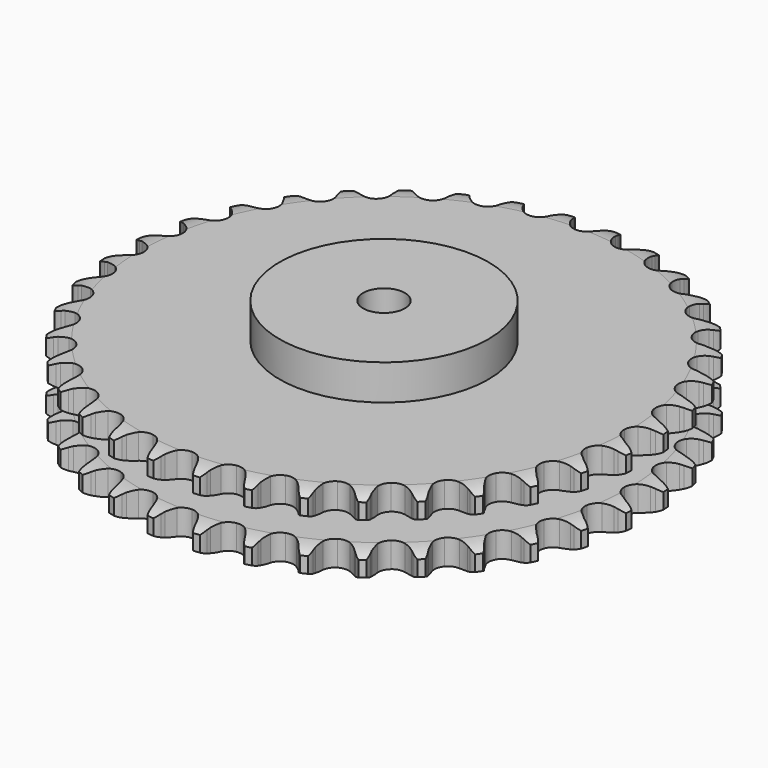
from build123d import *

# Parameters (mm, degrees)
PAD_DEPTH         = 54.6
SKETCH001_R       = 75
PAD001_DEPTH      = 80
SKETCH002_R       = 15
POCKET_DEPTH      = 0.001
POCKET_DEPTH_BACK = 80.001


with BuildPart() as part:
    # Sprocket → Pad (new body)
    with BuildSketch(Plane.XY):
        with BuildLine():
            ThreePointArc((-16.78403, 191.842346), (-13.955866, 188.830521), (-12.023803, 185.178571))
            Line((-12.023803, 185.178571), (-11.094545, 182.655939))
            ThreePointArc((-11.094545, 182.655939), (-9.626372, 179.409335), (-7.708985, 176.406071))
            ThreePointArc((-7.708985, 176.406071), (-4.313286, 173.55674), (0, 172.534473))
            ThreePointArc((0, 172.534473), (4.313286, 173.55674), (7.708985, 176.406071))
            ThreePointArc((7.708985, 176.406071), (9.626372, 179.409335), (11.094545, 182.655939))
            Line((11.094545, 182.655939), (12.023803, 185.178571))
            ThreePointArc((12.023803, 185.178571), (13.955866, 188.830521), (16.78403, 191.842346))
            ThreePointArc((16.78403, 191.842346), (19.046231, 188.385172), (20.314787, 184.453204))
            Line((20.314787, 184.453204), (20.791877, 181.807533))
            ThreePointArc((20.791877, 181.807533), (21.673978, 178.355306), (23.040724, 175.064717))
            ThreePointArc((23.040724, 175.064717), (25.890055, 171.669018), (29.960297, 169.913286))
            ThreePointArc((29.960297, 169.913286), (34.385569, 170.171029), (38.224461, 172.387415))
            Line((38.224461, 172.387415), (42.643865, 177.954438))
            ThreePointArc((42.643865, 177.954438), (43.289025, 179.134221), (43.997056, 180.277381))
            ThreePointArc((43.997056, 180.277381), (46.533921, 183.538351), (49.842117, 186.013314))
            ThreePointArc((49.842117, 186.013314), (51.469618, 182.215835), (52.036122, 178.12332))
            Line((52.036122, 178.12332), (52.046549, 175.434996))
            ThreePointArc((52.046549, 175.434996), (52.315776, 171.882041), (53.090353, 168.404111))
            ThreePointArc((53.090353, 168.404111), (55.306739, 164.565219), (59.010265, 162.129371))
            ThreePointArc((59.010265, 162.129371), (63.413064, 161.614758), (67.578506, 163.130855))
            Line((67.578506, 163.130855), (72.897472, 167.84588))
            ThreePointArc((72.897472, 167.84588), (73.737699, 168.895709), (74.633481, 169.898554))
            ThreePointArc((74.633481, 169.898554), (77.698066, 172.66946), (81.385776, 174.532361))
            ThreePointArc((81.385776, 174.532361), (82.329126, 170.509961), (82.176366, 166.381248))
            Line((82.176366, 166.381248), (81.719812, 163.731956))
            ThreePointArc((81.719812, 163.731956), (81.367985, 160.186228), (81.526858, 156.626631))
            ThreePointArc((81.526858, 156.626631), (83.042955, 152.461189), (86.267236, 149.419236))
            ThreePointArc((86.267236, 149.419236), (90.513785, 148.147903), (94.879213, 148.917646))
            Line((94.879213, 148.917646), (100.936127, 152.637411))
            ThreePointArc((100.936127, 152.637411), (101.94589, 153.525387), (103.002205, 154.357445))
            ThreePointArc((103.002205, 154.357445), (106.501395, 156.554096), (110.45657, 157.74833))
            ThreePointArc((110.45657, 157.74833), (110.687106, 153.623229), (109.819723, 149.583767))
            Line((109.819723, 149.583767), (108.91006, 147.054003))
            ThreePointArc((108.91006, 147.054003), (107.947869, 143.623237), (107.486211, 140.090131))
            ThreePointArc((107.486211, 140.090131), (108.255954, 135.724703), (110.903021, 132.169074))
            ThreePointArc((110.903021, 132.169074), (114.864291, 130.17965), (119.297062, 130.17965))
            Line((119.297062, 130.17965), (125.907889, 132.791131))
            ThreePointArc((125.907889, 132.791131), (127.056506, 133.490273), (128.241259, 134.126263))
            ThreePointArc((128.241259, 134.126263), (132.068733, 135.681914), (136.171196, 136.171196))
            ThreePointArc((136.171196, 136.171196), (135.681914, 132.068733), (134.126263, 128.241259))
            Line((134.126263, 128.241259), (132.791131, 125.907889))
            ThreePointArc((132.791131, 125.907889), (131.247811, 122.696327), (130.17965, 119.297062))
            ThreePointArc((130.17965, 119.297062), (130.17965, 114.864291), (132.169074, 110.903021))
            ThreePointArc((132.169074, 110.903021), (135.724703, 108.255954), (140.090131, 107.486211))
            Line((140.090131, 107.486211), (147.054003, 108.91006))
            ThreePointArc((147.054003, 108.91006), (148.306575, 109.399125), (149.583767, 109.819723))
            ThreePointArc((149.583767, 109.819723), (153.623229, 110.687106), (157.74833, 110.45657))
            ThreePointArc((157.74833, 110.45657), (156.554096, 106.501395), (154.357445, 103.002205))
            Line((154.357445, 103.002205), (152.637411, 100.936127))
            ThreePointArc((152.637411, 100.936127), (150.559856, 98.04135), (148.917646, 94.879213))
            ThreePointArc((148.917646, 94.879213), (148.147903, 90.513785), (149.419236, 86.267236))
            ThreePointArc((149.419236, 86.267236), (152.461189, 83.042955), (156.626631, 81.526858))
            Line((156.626631, 81.526858), (163.731956, 81.719812))
            ThreePointArc((163.731956, 81.719812), (165.050424, 81.98394), (166.381248, 82.176366))
            ThreePointArc((166.381248, 82.176366), (170.509961, 82.329126), (174.532361, 81.385776))
            ThreePointArc((174.532361, 81.385776), (172.66946, 77.698066), (169.898554, 74.633481))
            Line((169.898554, 74.633481), (167.84588, 72.897472))
            ThreePointArc((167.84588, 72.897472), (165.297215, 70.407437), (163.130855, 67.578506))
            ThreePointArc((163.130855, 67.578506), (161.614758, 63.413064), (162.129371, 59.010265))
            ThreePointArc((162.129371, 59.010265), (164.565219, 55.306739), (168.404111, 53.090353))
            Line((168.404111, 53.090353), (175.434996, 52.046549))
            ThreePointArc((175.434996, 52.046549), (176.779299, 52.077715), (178.12332, 52.036122))
            ThreePointArc((178.12332, 52.036122), (182.215835, 51.469618), (186.013314, 49.842117))
            ThreePointArc((186.013314, 49.842117), (183.538351, 46.533921), (180.277381, 43.997056))
            Line((180.277381, 43.997056), (177.954438, 42.643865))
            ThreePointArc((177.954438, 42.643865), (175.012102, 40.63423), (172.387415, 38.224461))
            ThreePointArc((172.387415, 38.224461), (170.171029, 34.385569), (169.913286, 29.960297))
            ThreePointArc((169.913286, 29.960297), (171.669018, 25.890055), (175.064717, 23.040724))
            Line((175.064717, 23.040724), (181.807533, 20.791877))
            ThreePointArc((181.807533, 20.791877), (183.136824, 20.589134), (184.453204, 20.314787))
            ThreePointArc((184.453204, 20.314787), (188.385172, 19.046231), (191.842346, 16.78403))
            ThreePointArc((191.842346, 16.78403), (188.830521, 13.955866), (185.178571, 12.023803))
            Line((185.178571, 12.023803), (182.655939, 11.094545))
            ThreePointArc((182.655939, 11.094545), (179.409335, 9.626372), (176.406071, 7.708985))
            ThreePointArc((176.406071, 7.708985), (173.55674, 4.313286), (172.534473, 0))
            ThreePointArc((172.534473, 0), (173.55674, -4.313286), (176.406071, -7.708985))
            Line((176.406071, -7.708985), (182.655939, -11.094545))
            ThreePointArc((182.655939, -11.094545), (183.92983, -11.525037), (185.178571, -12.023803))
            ThreePointArc((185.178571, -12.023803), (188.830521, -13.955866), (191.842346, -16.78403))
            ThreePointArc((191.842346, -16.78403), (188.385172, -19.046231), (184.453204, -20.314787))
            Line((184.453204, -20.314787), (181.807533, -20.791877))
            ThreePointArc((181.807533, -20.791877), (178.355306, -21.673978), (175.064717, -23.040724))
            ThreePointArc((175.064717, -23.040724), (171.669018, -25.890055), (169.913286, -29.960297))
            ThreePointArc((169.913286, -29.960297), (170.171029, -34.385569), (172.387415, -38.224461))
            Line((172.387415, -38.224461), (177.954438, -42.643865))
            ThreePointArc((177.954438, -42.643865), (179.134221, -43.289025), (180.277381, -43.997056))
            ThreePointArc((180.277381, -43.997056), (183.538351, -46.533921), (186.013314, -49.842117))
            ThreePointArc((186.013314, -49.842117), (182.215835, -51.469618), (178.12332, -52.036122))
            Line((178.12332, -52.036122), (175.434996, -52.046549))
            ThreePointArc((175.434996, -52.046549), (171.882041, -52.315776), (168.404111, -53.090353))
            ThreePointArc((168.404111, -53.090353), (164.565219, -55.306739), (162.129371, -59.010265))
            ThreePointArc((162.129371, -59.010265), (161.614758, -63.413064), (163.130855, -67.578506))
            Line((163.130855, -67.578506), (167.84588, -72.897472))
            ThreePointArc((167.84588, -72.897472), (168.895709, -73.737699), (169.898554, -74.633481))
            ThreePointArc((169.898554, -74.633481), (172.66946, -77.698066), (174.532361, -81.385776))
            ThreePointArc((174.532361, -81.385776), (170.509961, -82.329126), (166.381248, -82.176366))
            Line((166.381248, -82.176366), (163.731956, -81.719812))
            ThreePointArc((163.731956, -81.719812), (160.186228, -81.367985), (156.626631, -81.526858))
            ThreePointArc((156.626631, -81.526858), (152.461189, -83.042955), (149.419236, -86.267236))
            ThreePointArc((149.419236, -86.267236), (148.147903, -90.513785), (148.917646, -94.879213))
            Line((148.917646, -94.879213), (152.637411, -100.936127))
            ThreePointArc((152.637411, -100.936127), (153.525387, -101.94589), (154.357445, -103.002205))
            ThreePointArc((154.357445, -103.002205), (156.554096, -106.501395), (157.74833, -110.45657))
            ThreePointArc((157.74833, -110.45657), (153.623229, -110.687106), (149.583767, -109.819723))
            Line((149.583767, -109.819723), (147.054003, -108.91006))
            ThreePointArc((147.054003, -108.91006), (143.623237, -107.947869), (140.090131, -107.486211))
            ThreePointArc((140.090131, -107.486211), (135.724703, -108.255954), (132.169074, -110.903021))
            ThreePointArc((132.169074, -110.903021), (130.17965, -114.864291), (130.17965, -119.297062))
            Line((130.17965, -119.297062), (132.791131, -125.907889))
            ThreePointArc((132.791131, -125.907889), (133.490273, -127.056506), (134.126263, -128.241259))
            ThreePointArc((134.126263, -128.241259), (135.681914, -132.068733), (136.171196, -136.171196))
            ThreePointArc((136.171196, -136.171196), (132.068733, -135.681914), (128.241259, -134.126263))
            Line((128.241259, -134.126263), (125.907889, -132.791131))
            ThreePointArc((125.907889, -132.791131), (122.696327, -131.247811), (119.297062, -130.17965))
            ThreePointArc((119.297062, -130.17965), (114.864291, -130.17965), (110.903021, -132.169074))
            ThreePointArc((110.903021, -132.169074), (108.255954, -135.724703), (107.486211, -140.090131))
            Line((107.486211, -140.090131), (108.91006, -147.054003))
            ThreePointArc((108.91006, -147.054003), (109.399125, -148.306575), (109.819723, -149.583767))
            ThreePointArc((109.819723, -149.583767), (110.687106, -153.623229), (110.45657, -157.74833))
            ThreePointArc((110.45657, -157.74833), (106.501395, -156.554096), (103.002205, -154.357445))
            Line((103.002205, -154.357445), (100.936127, -152.637411))
            ThreePointArc((100.936127, -152.637411), (98.04135, -150.559856), (94.879213, -148.917646))
            ThreePointArc((94.879213, -148.917646), (90.513785, -148.147903), (86.267236, -149.419236))
            ThreePointArc((86.267236, -149.419236), (83.042955, -152.461189), (81.526858, -156.626631))
            Line((81.526858, -156.626631), (81.719812, -163.731956))
            ThreePointArc((81.719812, -163.731956), (81.98394, -165.050424), (82.176366, -166.381248))
            ThreePointArc((82.176366, -166.381248), (82.329126, -170.509961), (81.385776, -174.532361))
            ThreePointArc((81.385776, -174.532361), (77.698066, -172.66946), (74.633481, -169.898554))
            Line((74.633481, -169.898554), (72.897472, -167.84588))
            ThreePointArc((72.897472, -167.84588), (70.407437, -165.297215), (67.578506, -163.130855))
            ThreePointArc((67.578506, -163.130855), (63.413064, -161.614758), (59.010265, -162.129371))
            ThreePointArc((59.010265, -162.129371), (55.306739, -164.565219), (53.090353, -168.404111))
            Line((53.090353, -168.404111), (52.046549, -175.434996))
            ThreePointArc((52.046549, -175.434996), (52.077715, -176.779299), (52.036122, -178.12332))
            ThreePointArc((52.036122, -178.12332), (51.469618, -182.215835), (49.842117, -186.013314))
            ThreePointArc((49.842117, -186.013314), (46.533921, -183.538351), (43.997056, -180.277381))
            Line((43.997056, -180.277381), (42.643865, -177.954438))
            ThreePointArc((42.643865, -177.954438), (40.63423, -175.012102), (38.224461, -172.387415))
            ThreePointArc((38.224461, -172.387415), (34.385569, -170.171029), (29.960297, -169.913286))
            ThreePointArc((29.960297, -169.913286), (25.890055, -171.669018), (23.040724, -175.064717))
            Line((23.040724, -175.064717), (20.791877, -181.807533))
            ThreePointArc((20.791877, -181.807533), (20.589134, -183.136824), (20.314787, -184.453204))
            ThreePointArc((20.314787, -184.453204), (19.046231, -188.385172), (16.78403, -191.842346))
            ThreePointArc((16.78403, -191.842346), (13.955866, -188.830521), (12.023803, -185.178571))
            Line((12.023803, -185.178571), (11.094545, -182.655939))
            ThreePointArc((11.094545, -182.655939), (9.626372, -179.409335), (7.708985, -176.406071))
            ThreePointArc((7.708985, -176.406071), (4.313286, -173.55674), (0, -172.534473))
            ThreePointArc((0, -172.534473), (-4.313286, -173.55674), (-7.708985, -176.406071))
            Line((-7.708985, -176.406071), (-11.094545, -182.655939))
            ThreePointArc((-11.094545, -182.655939), (-11.525037, -183.92983), (-12.023803, -185.178571))
            ThreePointArc((-12.023803, -185.178571), (-13.955866, -188.830521), (-16.78403, -191.842346))
            ThreePointArc((-16.78403, -191.842346), (-19.046231, -188.385172), (-20.314787, -184.453204))
            Line((-20.314787, -184.453204), (-20.791877, -181.807533))
            ThreePointArc((-20.791877, -181.807533), (-21.673978, -178.355306), (-23.040724, -175.064717))
            ThreePointArc((-23.040724, -175.064717), (-25.890055, -171.669018), (-29.960297, -169.913286))
            ThreePointArc((-29.960297, -169.913286), (-34.385569, -170.171029), (-38.224461, -172.387415))
            Line((-38.224461, -172.387415), (-42.643865, -177.954438))
            ThreePointArc((-42.643865, -177.954438), (-43.289025, -179.134221), (-43.997056, -180.277381))
            ThreePointArc((-43.997056, -180.277381), (-46.533921, -183.538351), (-49.842117, -186.013314))
            ThreePointArc((-49.842117, -186.013314), (-51.469618, -182.215835), (-52.036122, -178.12332))
            Line((-52.036122, -178.12332), (-52.046549, -175.434996))
            ThreePointArc((-52.046549, -175.434996), (-52.315776, -171.882041), (-53.090353, -168.404111))
            ThreePointArc((-53.090353, -168.404111), (-55.306739, -164.565219), (-59.010265, -162.129371))
            ThreePointArc((-59.010265, -162.129371), (-63.413064, -161.614758), (-67.578506, -163.130855))
            Line((-67.578506, -163.130855), (-72.897472, -167.84588))
            ThreePointArc((-72.897472, -167.84588), (-73.737699, -168.895709), (-74.633481, -169.898554))
            ThreePointArc((-74.633481, -169.898554), (-77.698066, -172.66946), (-81.385776, -174.532361))
            ThreePointArc((-81.385776, -174.532361), (-82.329126, -170.509961), (-82.176366, -166.381248))
            Line((-82.176366, -166.381248), (-81.719812, -163.731956))
            ThreePointArc((-81.719812, -163.731956), (-81.367985, -160.186228), (-81.526858, -156.626631))
            ThreePointArc((-81.526858, -156.626631), (-83.042955, -152.461189), (-86.267236, -149.419236))
            ThreePointArc((-86.267236, -149.419236), (-90.513785, -148.147903), (-94.879213, -148.917646))
            Line((-94.879213, -148.917646), (-100.936127, -152.637411))
            ThreePointArc((-100.936127, -152.637411), (-101.94589, -153.525387), (-103.002205, -154.357445))
            ThreePointArc((-103.002205, -154.357445), (-106.501395, -156.554096), (-110.45657, -157.74833))
            ThreePointArc((-110.45657, -157.74833), (-110.687106, -153.623229), (-109.819723, -149.583767))
            Line((-109.819723, -149.583767), (-108.91006, -147.054003))
            ThreePointArc((-108.91006, -147.054003), (-107.947869, -143.623237), (-107.486211, -140.090131))
            ThreePointArc((-107.486211, -140.090131), (-108.255954, -135.724703), (-110.903021, -132.169074))
            ThreePointArc((-110.903021, -132.169074), (-114.864291, -130.17965), (-119.297062, -130.17965))
            Line((-119.297062, -130.17965), (-125.907889, -132.791131))
            ThreePointArc((-125.907889, -132.791131), (-127.056506, -133.490273), (-128.241259, -134.126263))
            ThreePointArc((-128.241259, -134.126263), (-132.068733, -135.681914), (-136.171196, -136.171196))
            ThreePointArc((-136.171196, -136.171196), (-135.681914, -132.068733), (-134.126263, -128.241259))
            Line((-134.126263, -128.241259), (-132.791131, -125.907889))
            ThreePointArc((-132.791131, -125.907889), (-131.247811, -122.696327), (-130.17965, -119.297062))
            ThreePointArc((-130.17965, -119.297062), (-130.17965, -114.864291), (-132.169074, -110.903021))
            ThreePointArc((-132.169074, -110.903021), (-135.724703, -108.255954), (-140.090131, -107.486211))
            Line((-140.090131, -107.486211), (-147.054003, -108.91006))
            ThreePointArc((-147.054003, -108.91006), (-148.306575, -109.399125), (-149.583767, -109.819723))
            ThreePointArc((-149.583767, -109.819723), (-153.623229, -110.687106), (-157.74833, -110.45657))
            ThreePointArc((-157.74833, -110.45657), (-156.554096, -106.501395), (-154.357445, -103.002205))
            Line((-154.357445, -103.002205), (-152.637411, -100.936127))
            ThreePointArc((-152.637411, -100.936127), (-150.559856, -98.04135), (-148.917646, -94.879213))
            ThreePointArc((-148.917646, -94.879213), (-148.147903, -90.513785), (-149.419236, -86.267236))
            ThreePointArc((-149.419236, -86.267236), (-152.461189, -83.042955), (-156.626631, -81.526858))
            Line((-156.626631, -81.526858), (-163.731956, -81.719812))
            ThreePointArc((-163.731956, -81.719812), (-165.050424, -81.98394), (-166.381248, -82.176366))
            ThreePointArc((-166.381248, -82.176366), (-170.509961, -82.329126), (-174.532361, -81.385776))
            ThreePointArc((-174.532361, -81.385776), (-172.66946, -77.698066), (-169.898554, -74.633481))
            Line((-169.898554, -74.633481), (-167.84588, -72.897472))
            ThreePointArc((-167.84588, -72.897472), (-165.297215, -70.407437), (-163.130855, -67.578506))
            ThreePointArc((-163.130855, -67.578506), (-161.614758, -63.413064), (-162.129371, -59.010265))
            ThreePointArc((-162.129371, -59.010265), (-164.565219, -55.306739), (-168.404111, -53.090353))
            Line((-168.404111, -53.090353), (-175.434996, -52.046549))
            ThreePointArc((-175.434996, -52.046549), (-176.779299, -52.077715), (-178.12332, -52.036122))
            ThreePointArc((-178.12332, -52.036122), (-182.215835, -51.469618), (-186.013314, -49.842117))
            ThreePointArc((-186.013314, -49.842117), (-183.538351, -46.533921), (-180.277381, -43.997056))
            Line((-180.277381, -43.997056), (-177.954438, -42.643865))
            ThreePointArc((-177.954438, -42.643865), (-175.012102, -40.63423), (-172.387415, -38.224461))
            ThreePointArc((-172.387415, -38.224461), (-170.171029, -34.385569), (-169.913286, -29.960297))
            ThreePointArc((-169.913286, -29.960297), (-171.669018, -25.890055), (-175.064717, -23.040724))
            Line((-175.064717, -23.040724), (-181.807533, -20.791877))
            ThreePointArc((-181.807533, -20.791877), (-183.136824, -20.589134), (-184.453204, -20.314787))
            ThreePointArc((-184.453204, -20.314787), (-188.385172, -19.046231), (-191.842346, -16.78403))
            ThreePointArc((-191.842346, -16.78403), (-188.830521, -13.955866), (-185.178571, -12.023803))
            Line((-185.178571, -12.023803), (-182.655939, -11.094545))
            ThreePointArc((-182.655939, -11.094545), (-179.409335, -9.626372), (-176.406071, -7.708985))
            ThreePointArc((-176.406071, -7.708985), (-173.55674, -4.313286), (-172.534473, 0))
            ThreePointArc((-172.534473, 0), (-173.55674, 4.313286), (-176.406071, 7.708985))
            Line((-176.406071, 7.708985), (-182.655939, 11.094545))
            ThreePointArc((-182.655939, 11.094545), (-183.92983, 11.525037), (-185.178571, 12.023803))
            ThreePointArc((-185.178571, 12.023803), (-188.830521, 13.955866), (-191.842346, 16.78403))
            ThreePointArc((-191.842346, 16.78403), (-188.385172, 19.046231), (-184.453204, 20.314787))
            Line((-184.453204, 20.314787), (-181.807533, 20.791877))
            ThreePointArc((-181.807533, 20.791877), (-178.355306, 21.673978), (-175.064717, 23.040724))
            ThreePointArc((-175.064717, 23.040724), (-171.669018, 25.890055), (-169.913286, 29.960297))
            ThreePointArc((-169.913286, 29.960297), (-170.171029, 34.385569), (-172.387415, 38.224461))
            Line((-172.387415, 38.224461), (-177.954438, 42.643865))
            ThreePointArc((-177.954438, 42.643865), (-179.134221, 43.289025), (-180.277381, 43.997056))
            ThreePointArc((-180.277381, 43.997056), (-183.538351, 46.533921), (-186.013314, 49.842117))
            ThreePointArc((-186.013314, 49.842117), (-182.215835, 51.469618), (-178.12332, 52.036122))
            Line((-178.12332, 52.036122), (-175.434996, 52.046549))
            ThreePointArc((-175.434996, 52.046549), (-171.882041, 52.315776), (-168.404111, 53.090353))
            ThreePointArc((-168.404111, 53.090353), (-164.565219, 55.306739), (-162.129371, 59.010265))
            ThreePointArc((-162.129371, 59.010265), (-161.614758, 63.413064), (-163.130855, 67.578506))
            Line((-163.130855, 67.578506), (-167.84588, 72.897472))
            ThreePointArc((-167.84588, 72.897472), (-168.895709, 73.737699), (-169.898554, 74.633481))
            ThreePointArc((-169.898554, 74.633481), (-172.66946, 77.698066), (-174.532361, 81.385776))
            ThreePointArc((-174.532361, 81.385776), (-170.509961, 82.329126), (-166.381248, 82.176366))
            Line((-166.381248, 82.176366), (-163.731956, 81.719812))
            ThreePointArc((-163.731956, 81.719812), (-160.186228, 81.367985), (-156.626631, 81.526858))
            ThreePointArc((-156.626631, 81.526858), (-152.461189, 83.042955), (-149.419236, 86.267236))
            ThreePointArc((-149.419236, 86.267236), (-148.147903, 90.513785), (-148.917646, 94.879213))
            Line((-148.917646, 94.879213), (-152.637411, 100.936127))
            ThreePointArc((-152.637411, 100.936127), (-153.525387, 101.94589), (-154.357445, 103.002205))
            ThreePointArc((-154.357445, 103.002205), (-156.554096, 106.501395), (-157.74833, 110.45657))
            ThreePointArc((-157.74833, 110.45657), (-153.623229, 110.687106), (-149.583767, 109.819723))
            Line((-149.583767, 109.819723), (-147.054003, 108.91006))
            ThreePointArc((-147.054003, 108.91006), (-143.623237, 107.947869), (-140.090131, 107.486211))
            ThreePointArc((-140.090131, 107.486211), (-135.724703, 108.255954), (-132.169074, 110.903021))
            ThreePointArc((-132.169074, 110.903021), (-130.17965, 114.864291), (-130.17965, 119.297062))
            Line((-130.17965, 119.297062), (-132.791131, 125.907889))
            ThreePointArc((-132.791131, 125.907889), (-133.490273, 127.056506), (-134.126263, 128.241259))
            ThreePointArc((-134.126263, 128.241259), (-135.681914, 132.068733), (-136.171196, 136.171196))
            ThreePointArc((-136.171196, 136.171196), (-132.068733, 135.681914), (-128.241259, 134.126263))
            Line((-128.241259, 134.126263), (-125.907889, 132.791131))
            ThreePointArc((-125.907889, 132.791131), (-122.696327, 131.247811), (-119.297062, 130.17965))
            ThreePointArc((-119.297062, 130.17965), (-114.864291, 130.17965), (-110.903021, 132.169074))
            ThreePointArc((-110.903021, 132.169074), (-108.255954, 135.724703), (-107.486211, 140.090131))
            Line((-107.486211, 140.090131), (-108.91006, 147.054003))
            ThreePointArc((-108.91006, 147.054003), (-109.399125, 148.306575), (-109.819723, 149.583767))
            ThreePointArc((-109.819723, 149.583767), (-110.687106, 153.623229), (-110.45657, 157.74833))
            ThreePointArc((-110.45657, 157.74833), (-106.501395, 156.554096), (-103.002205, 154.357445))
            Line((-103.002205, 154.357445), (-100.936127, 152.637411))
            ThreePointArc((-100.936127, 152.637411), (-98.04135, 150.559856), (-94.879213, 148.917646))
            ThreePointArc((-94.879213, 148.917646), (-90.513785, 148.147903), (-86.267236, 149.419236))
            ThreePointArc((-86.267236, 149.419236), (-83.042955, 152.461189), (-81.526858, 156.626631))
            Line((-81.526858, 156.626631), (-81.719812, 163.731956))
            ThreePointArc((-81.719812, 163.731956), (-81.98394, 165.050424), (-82.176366, 166.381248))
            ThreePointArc((-82.176366, 166.381248), (-82.329126, 170.509961), (-81.385776, 174.532361))
            ThreePointArc((-81.385776, 174.532361), (-77.698066, 172.66946), (-74.633481, 169.898554))
            Line((-74.633481, 169.898554), (-72.897472, 167.84588))
            ThreePointArc((-72.897472, 167.84588), (-70.407437, 165.297215), (-67.578506, 163.130855))
            ThreePointArc((-67.578506, 163.130855), (-63.413064, 161.614758), (-59.010265, 162.129371))
            ThreePointArc((-59.010265, 162.129371), (-55.306739, 164.565219), (-53.090353, 168.404111))
            Line((-53.090353, 168.404111), (-52.046549, 175.434996))
            ThreePointArc((-52.046549, 175.434996), (-52.077715, 176.779299), (-52.036122, 178.12332))
            ThreePointArc((-52.036122, 178.12332), (-51.469618, 182.215835), (-49.842117, 186.013314))
            ThreePointArc((-49.842117, 186.013314), (-46.533921, 183.538351), (-43.997056, 180.277381))
            Line((-43.997056, 180.277381), (-42.643865, 177.954438))
            ThreePointArc((-42.643865, 177.954438), (-40.63423, 175.012102), (-38.224461, 172.387415))
            ThreePointArc((-38.224461, 172.387415), (-34.385569, 170.171029), (-29.960297, 169.913286))
            ThreePointArc((-29.960297, 169.913286), (-25.890055, 171.669018), (-23.040724, 175.064717))
            Line((-23.040724, 175.064717), (-20.791877, 181.807533))
            ThreePointArc((-20.791877, 181.807533), (-20.589134, 183.136824), (-20.314787, 184.453204))
            ThreePointArc((-20.314787, 184.453204), (-19.046231, 188.385172), (-16.78403, 191.842346))
        make_face()
    extrude(amount=PAD_DEPTH)

    # Sketch → Groove (revolve, cut)
    with BuildSketch(Plane.XZ):
        with BuildLine():
            ThreePointArc((175.198368, 0), (182.681683, 0.887302), (189.75, 3.5))
            Line((189.75, 3.5), (189.75, 14.7))
            ThreePointArc((189.75, 14.7), (182.681683, 17.312698), (175.198368, 18.2))
            Line((75, 18.2), (175.198368, 18.2))
            Line((75, 36.4), (75, 18.2))
            Line((175.198368, 36.4), (75, 36.4))
            ThreePointArc((175.198368, 36.4), (182.681683, 37.287302), (189.75, 39.9))
            Line((189.75, 39.9), (189.75, 51.1))
            ThreePointArc((189.75, 51.1), (182.681683, 53.712698), (175.198368, 54.6))
            Line((175.198368, 54.6), (199.75, 54.6))
            Line((199.75, 54.6), (199.75, 0))
            Line((175.198368, 0), (199.75, 0))
        make_face()
    revolve(axis=Axis((0, 0, 0), (0, 0, 1)), mode=Mode.SUBTRACT)

    # Sketch001 → Pad001 (join)
    with BuildSketch(Plane.XY):
        Circle(SKETCH001_R)
    extrude(amount=PAD001_DEPTH)

    # Sketch002 → Pocket (cut, two sides)
    with BuildSketch(Plane.XY) as pocket_sk:
        Circle(SKETCH002_R)
    extrude(amount=-POCKET_DEPTH, mode=Mode.SUBTRACT)
    extrude(pocket_sk.sketch, amount=POCKET_DEPTH_BACK, mode=Mode.SUBTRACT)


solid = part.part
